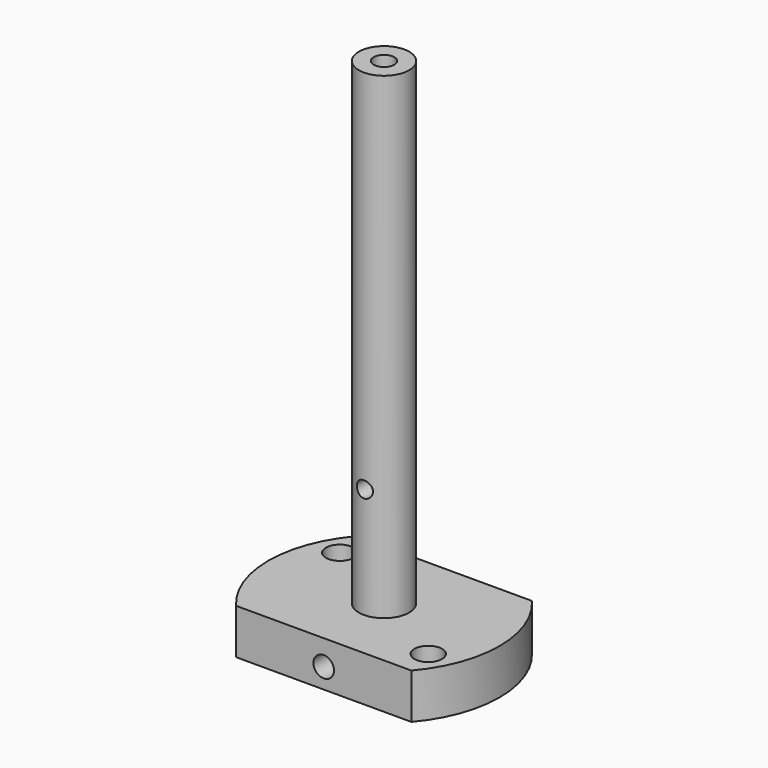
from build123d import *

# Parameters (mm, degrees)
F1_DEPTH  = 9
F2_R      = 10.5
F3_DEPTH  = 3
F4_R      = 5
F5_DEPTH  = 95
F7_D      = 3.2
F7_DEPTH  = 5
F7_TIP    = 0.9613769904
F9_D      = 4.1
F9_DEPTH  = 18.5
F9_TIP    = 1.231764269
F11_D     = 4.1
F11_DEPTH = 100
F11_TIP   = 1.231764269
F13_D     = 5.5
F13_DEPTH = 9
F13_TIP   = 1.6523667023


with BuildPart() as f1:
    # F0 (on Top) → F1 (new body)
    with BuildSketch(Plane.XY):
        with BuildLine():
            Line((-17.435, 15), (-17.4355957742, 15))
            ThreePointArc((-17.4355957742, 15), (-23, 0), (-17.4355957742, -15))
            Line((-17.4355957742, -15), (-17.435, -15))
            Line((-17.435, -15), (17.435, -15))
            Line((17.435, -15), (17.4355957742, -15))
            ThreePointArc((17.4355957742, -15), (23, 0), (17.4355957742, 15))
            Line((17.4355957742, 15), (17.435, 15))
            Line((17.435, 15), (-17.435, 15))
        make_face()
    extrude(amount=F1_DEPTH)

    # F2 (on face) → F3 (join)
    with BuildSketch(Plane(origin=(0, 0, 0), x_dir=(1, 0, 0), z_dir=(0, 0, -1))):
        Circle(F2_R)
    extrude(amount=F3_DEPTH)

    # F4 (on face) → F5 (join)
    with BuildSketch(Plane.XY.offset(9)):
        Circle(F4_R)
    extrude(amount=F5_DEPTH)

    # F7 (one way)
    with BuildSketch(Plane(origin=(0, 0, 0), x_dir=(1, 0, 0), z_dir=(0, 1, 0))):
        with Locations((0, -31)):
            Circle(F7_D / 2)
    extrude(amount=-F7_DEPTH, mode=Mode.SUBTRACT)
    with Locations(Plane(origin=(0, 0, 0), x_dir=(1, 0, 0), z_dir=(0, 1, 0))):
        with Locations((0, -31)):
            with Locations((0, 0, -(F7_DEPTH + F7_TIP / 2))):  # 118° drill point
                Cone(0, F7_D / 2, F7_TIP, mode=Mode.SUBTRACT)

    # F9
    with Locations(Plane.XZ.offset(15)):
        with Locations((0, 4)):
            Hole(F9_D / 2, depth=F9_DEPTH)
            with Locations((0, 0, -(F9_DEPTH + F9_TIP / 2))):  # 118° drill point
                Cone(0, F9_D / 2, F9_TIP, mode=Mode.SUBTRACT)

    # F11
    with Locations(Plane.XY.offset(104)):
        with Locations((0, 0)):
            Hole(F11_D / 2, depth=F11_DEPTH)
            with Locations((0, 0, -(F11_DEPTH + F11_TIP / 2))):  # 118° drill point
                Cone(0, F11_D / 2, F11_TIP, mode=Mode.SUBTRACT)

    # F13
    with Locations(Plane.XY.offset(9)):
        with Locations((-16, 9), (16, -9)):
            Hole(F13_D / 2, depth=F13_DEPTH)
            with Locations((0, 0, -(F13_DEPTH + F13_TIP / 2))):  # 118° drill point
                Cone(0, F13_D / 2, F13_TIP, mode=Mode.SUBTRACT)


solid = f1.part
